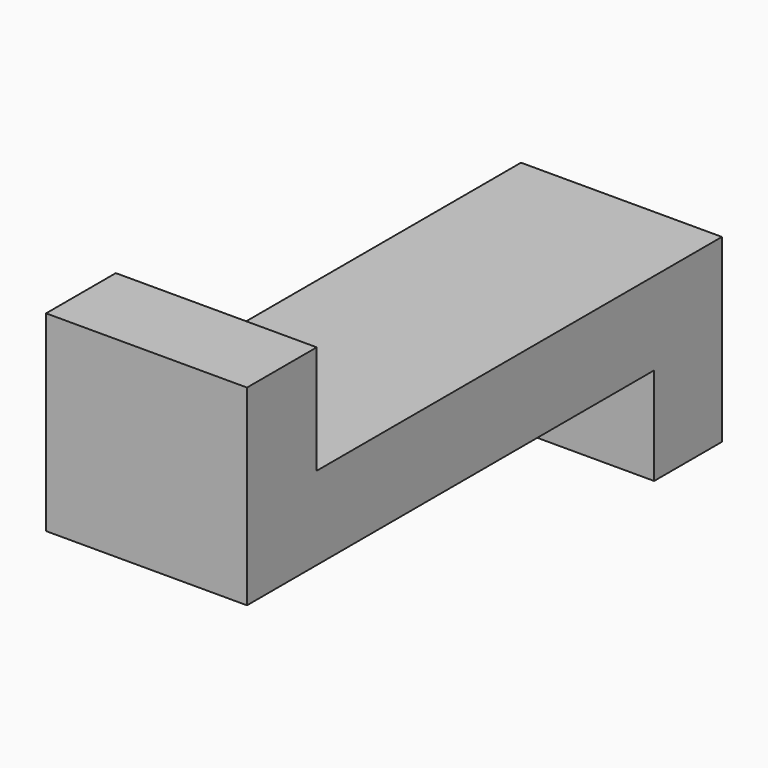
from build123d import *

# Parameters (mm, degrees)
F1_DEPTH = 66.548


with BuildPart() as f1:
    # F0 (on Right) → F1 (new body)
    with BuildSketch(Plane.YZ):
        Polygon((-98.306157, 13.752674), (-98.306157, -13.752674), (0, -13.752674), (0, 13.752674), (-69.442519, 13.752674), (-69.442519, 49.747326), (-98.306157, 49.747326), align=None)
        Polygon((0, 13.752674), (0, -13.752674), (70.240238, -13.752674), (70.240238, -46.012035), (98.306157, -46.012035), (98.306157, -13.752674), (98.306157, 13.752674), align=None)
    extrude(amount=F1_DEPTH)


solid = f1.part
